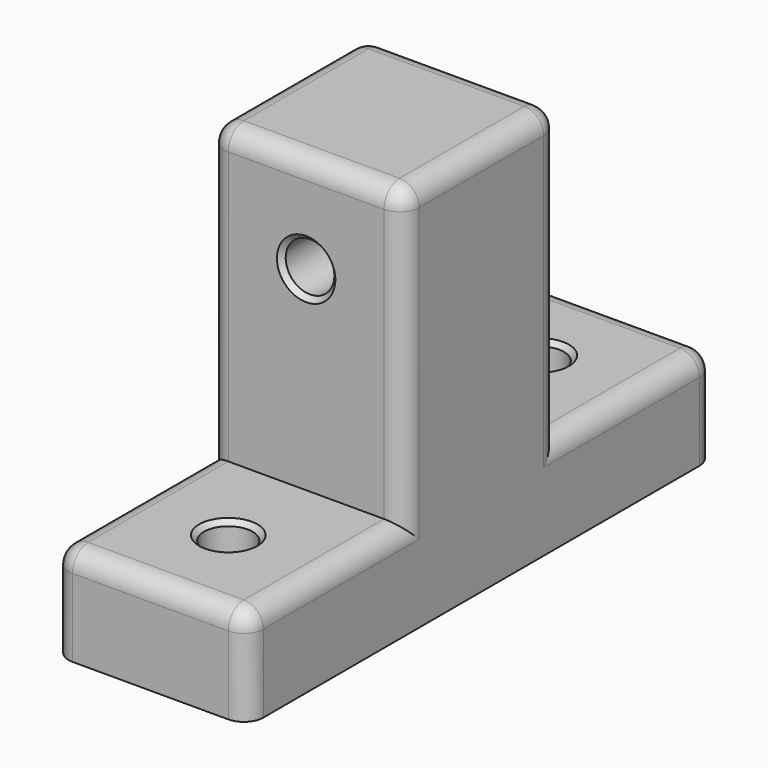
from build123d import *

# Parameters (mm, degrees)
F0_W     = 12.7
F0_H     = 12.7
F0_R     = 1.5875
F1_DEPTH = 6.35
F2_DEPTH = 25.4
F3_R     = 1.5875
F4_DEPTH = 25.4
F5_R     = 1.27
F6_SIZE  = 0.3175


with BuildPart() as f1:
    # F0 (on Top) → F1 (new body)
    with BuildSketch(Plane.XY):
        with Locations((0, 12.7)):
            Rectangle(F0_W, F0_H)
        with Locations((0, 12.7)):
            Circle(F0_R, mode=Mode.SUBTRACT)
    extrude(amount=F1_DEPTH)



with BuildPart() as f1b:
    # F0 (on Top) → F1, piece 2 (new body)
    with BuildSketch(Plane.XY):
        with Locations((0, -12.7)):
            Rectangle(F0_W, F0_H)
        with Locations((0, -12.7)):
            Circle(F0_R, mode=Mode.SUBTRACT)
    extrude(amount=F1_DEPTH)


with BuildPart() as f1_1:
    add(f1.part)

    add(f1b.part)  # F2 merges F1b
    # F0 (on Top) → F2 (join)
    with BuildSketch(Plane.XY):
        Rectangle(F0_W, F0_H)
    extrude(amount=F2_DEPTH)

    # F3 (on face) → F4 (cut)
    with BuildSketch(Plane(origin=(0, 6.35, 0), x_dir=(-1, 0, 0), z_dir=(0, 1, 0))):
        with Locations((0, 19.05)):
            Circle(F3_R)
    extrude(amount=-F4_DEPTH, mode=Mode.SUBTRACT)

    # F5
    f5_edges = [f1_1.edges().sort_by_distance(p)[0] for p in [
        (0, 6.35, 25.4),
        (6.35, 0, 25.4),
        (0, -6.35, 25.4),
        (-6.35, 0, 25.4),
        (6.35, 6.35, 15.875),
        (6.35, -6.35, 15.875),
        (6.35, -12.7, 6.35),
        (6.35, 12.7, 6.35),
        (-6.35, 6.35, 15.875),
        (-6.35, 12.7, 6.35),
        (-6.35, -6.35, 15.875),
        (-6.35, -12.7, 6.35),
        (0, -19.05, 6.35),
        (-6.35, -19.05, 3.175),
        (6.35, -19.05, 3.175),
        (6.35, 19.05, 3.175),
        (-6.35, 19.05, 3.175),
        (0, 19.05, 6.35),
    ]]
    fillet(f5_edges, radius=F5_R)

    # F6
    f6_edges = [f1_1.edges().sort_by_distance(p)[0] for p in [
        (-1.5875, -12.7, 6.35),
        (-1.5875, 12.7, 6.35),
        (1.5875, 6.35, 19.05),
        (1.5875, -6.35, 19.05),
    ]]
    chamfer(f6_edges, length=F6_SIZE)


solid = f1_1.part
